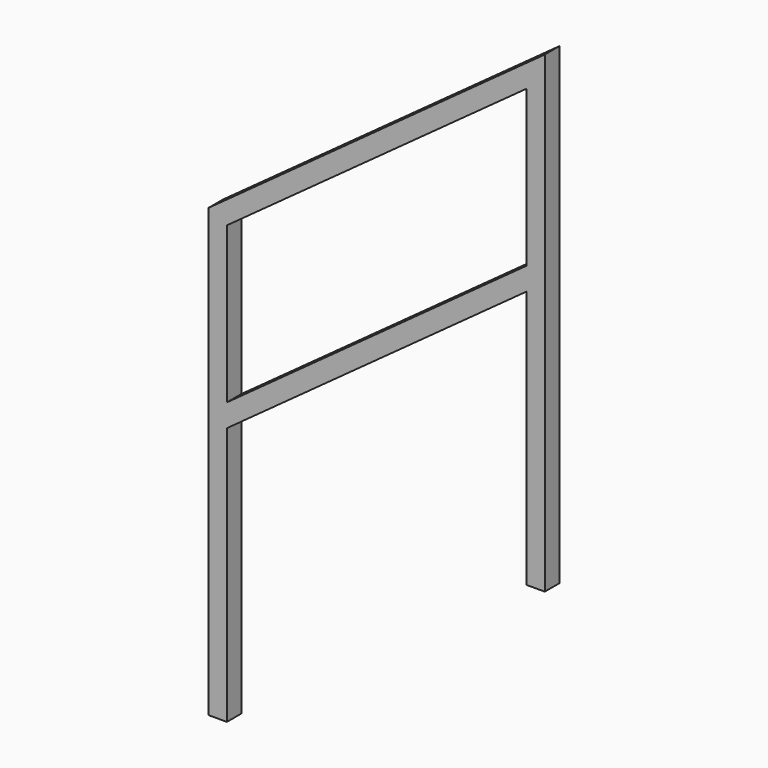
from build123d import *

# Parameters (mm, degrees)
F1_DEPTH = 44.45


with BuildPart() as f1:
    # F0 (on Front) → F1 (new body)
    with BuildSketch(Plane.XZ):
        Polygon((44.45, -399.401926), (44.45, -454.345147), (768.35, 71.598989), (768.35, 126.54221), align=None)
        Polygon((812.8, 590.533767), (0, 0), (0, -1079.5), (44.45, -1079.5), (44.45, -454.345147), (44.45, -399.401926), (44.45, -22.648406), (768.35, 503.29573), (768.35, 126.54221), (768.35, 71.598989), (768.35, -552.466233), (812.8, -552.466233), align=None)
    extrude(amount=F1_DEPTH)


solid = f1.part
